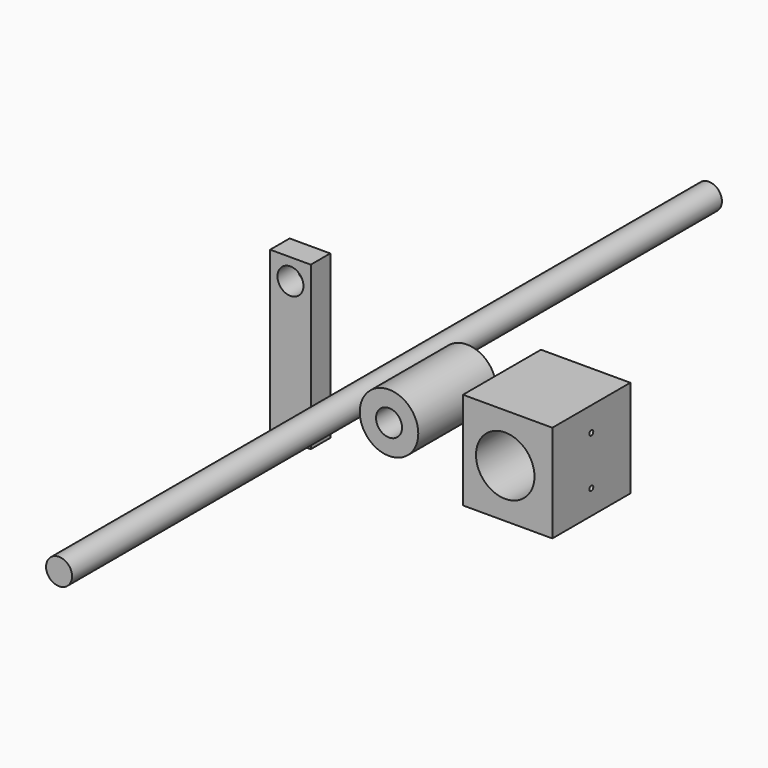
from build123d import *

# Parameters (mm, degrees)
F0_R      = 8
F1_DEPTH  = 250
F2_R      = 18
F2_R_2    = 8
F3_DEPTH  = 30
F4_W      = 25
F4_H      = 100
F5_DEPTH  = 15
F6_R      = 8
F7_DEPTH  = 25
F8_W      = 55
F8_H      = 60
F8_R      = 18
F9_DEPTH  = 30
F10_R     = 1.5
F11_DEPTH = 25


with BuildPart() as f1:
    # F0 (on Front) → F1 (new body, symmetric)
    with BuildSketch(Plane.XZ):
        with Locations((-13.974002, 0)):
            Circle(F0_R)
    extrude(amount=F1_DEPTH, both=True)


with BuildPart() as f3:
    # F2 (on Front) → F3 (new body, symmetric)
    with BuildSketch(Plane.XZ):
        with Locations((13.135484, 0)):
            Circle(F2_R)
        with Locations((13.135484, 0)):
            Circle(F2_R_2, mode=Mode.SUBTRACT)
    extrude(amount=F3_DEPTH, both=True)


with BuildPart() as f5:
    # F4 (on Front) → F5 (new body)
    with BuildSketch(Plane.XZ):
        with Locations((-71.548517, 0)):
            Rectangle(F4_W, F4_H)
    extrude(amount=-F5_DEPTH)

    # F6 (on face) → F7 (cut)
    with BuildSketch(Plane.XZ):
        with Locations((-71.548517, 37)):
            Circle(F6_R)
    extrude(amount=-F7_DEPTH, mode=Mode.SUBTRACT)


with BuildPart() as f9:
    # F8 (on Front) → F9 (new body, symmetric)
    with BuildSketch(Plane.XZ):
        with Locations((86.14445, 0)):
            Rectangle(F8_W, F8_H)
        with Locations((84.64445, 0)):
            Circle(F8_R, mode=Mode.SUBTRACT)
    extrude(amount=F9_DEPTH, both=True)

    # F10 (on face) → F11 (cut)
    with BuildSketch(Plane.YZ.offset(113.64445)):
        with Locations((0, 15)):
            Circle(F10_R)
        with Locations((0, -15)):
            Circle(F10_R)
    extrude(amount=-F11_DEPTH, mode=Mode.SUBTRACT)


solid = Compound([f1.part, f3.part, f5.part, f9.part])
